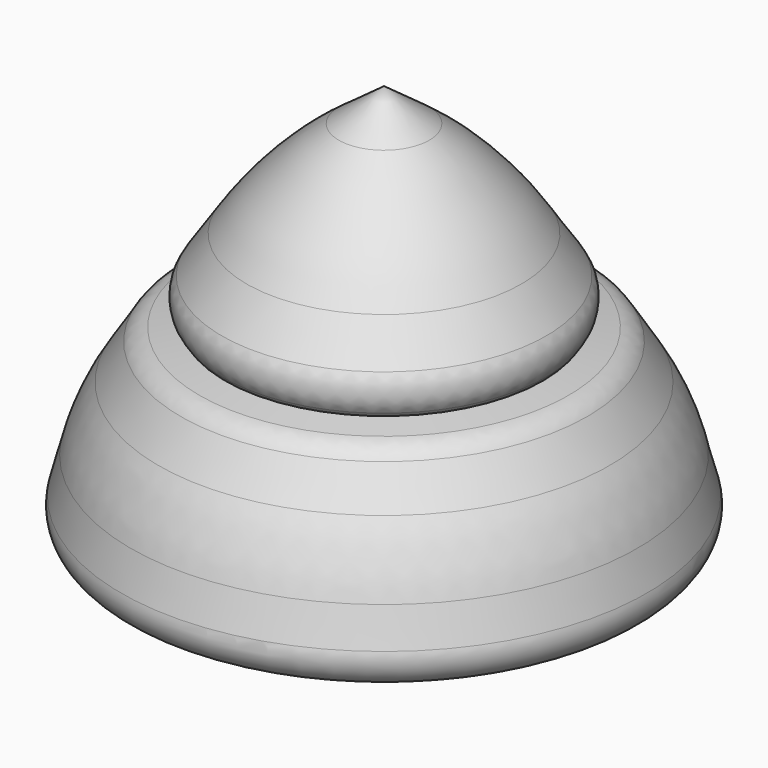
from build123d import *

# Parameters (mm, degrees)
F2_R = 1.216625
F3_R = 1.031815
F4_R = 1.144544
F5_R = 14.206331
F6_R = 8.725041


with BuildPart() as f1:
    # F0 (on Front) → F1 (revolve)
    with BuildSketch(Plane.XZ):
        Polygon((-10.26025, 0), (0, 0), (0, 15), (-3.757334, 12.255651), (-6.561344, 8.019807), (-5.964746, 7.184571), (-7.39658, 6.945931), (-9.186374, 4.082262), align=None)
    revolve(axis=Axis((0, 0, 7.5), (0, 0, -1)))

    # F2
    f2_edges = [f1.edges().sort_by_distance(p)[0] for p in [
        (6.561344, 0, 8.019807),
    ]]
    fillet(f2_edges, radius=F2_R)

    # F3
    f3_edges = [f1.edges().sort_by_distance(p)[0] for p in [
        (7.39658, 0, 6.945931),
    ]]
    fillet(f3_edges, radius=F3_R)

    # F4
    f4_edges = [f1.edges().sort_by_distance(p)[0] for p in [
        (10.26025, 0, 0),
    ]]
    fillet(f4_edges, radius=F4_R)

    # F5
    f5_edges = [f1.edges().sort_by_distance(p)[0] for p in [
        (3.757334, 0, 12.255651),
    ]]
    fillet(f5_edges, radius=F5_R)

    # F6
    f6_edges = [f1.edges().sort_by_distance(p)[0] for p in [
        (9.186374, 0, 4.082262),
    ]]
    fillet(f6_edges, radius=F6_R)


solid = f1.part
